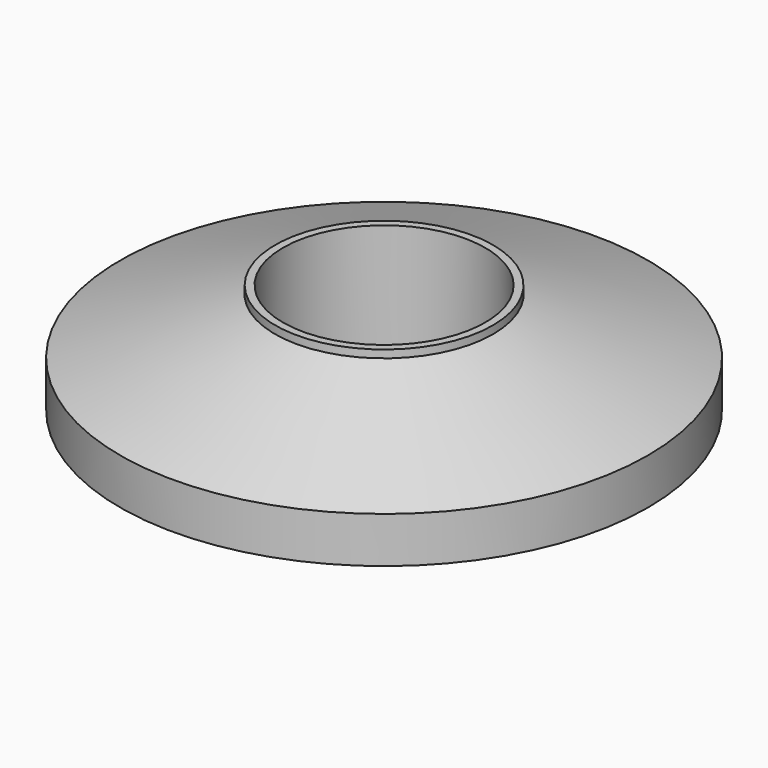
from build123d import *

# Parameters (mm, degrees)
F0_R     = 60
F1_DEPTH = 25
F2_SIZE2 = 14.5588093706
F2_SIZE  = 40
F3_T     = -2.5
F4_D     = 49.6
F5_R     = 24.75
F6_DEPTH = 25
F7_D     = 46


with BuildPart() as f1:
    # F0 (on Top) → F1 (new body)
    with BuildSketch(Plane.XY):
        Circle(F0_R)
    extrude(amount=F1_DEPTH)

    # F2
    f2_edges = [f1.edges().sort_by_distance(p)[0] for p in [
        (-60, 0, 25),
    ]]
    f2_side = f1.faces().sort_by_distance((0, 0, 25))[0]
    chamfer(f2_edges, length=F2_SIZE, length2=F2_SIZE2, reference=f2_side)

    # F3
    f3_openings = [f1.faces().sort_by_distance(p)[0] for p in [
        (0, 0, 0),
    ]]
    offset(amount=F3_T, openings=f3_openings)

    # F4 (through all)
    with Locations(Plane(origin=(0, 0, 0), x_dir=(1, 0, 0), z_dir=(0, 0, -1))):
        with Locations((0, 0)):
            Hole(F4_D / 2)


with BuildPart() as f6:
    # F5 (on Top) → F6 (new body)
    with BuildSketch(Plane.XY):
        Circle(F5_R)
    extrude(amount=F6_DEPTH)

    # F7 (through all)
    with Locations(Plane(origin=(0, 0, 0), x_dir=(1, 0, 0), z_dir=(0, 0, -1))):
        with Locations((0, 0)):
            Hole(F7_D / 2)


solid = Compound([f1.part, f6.part])
